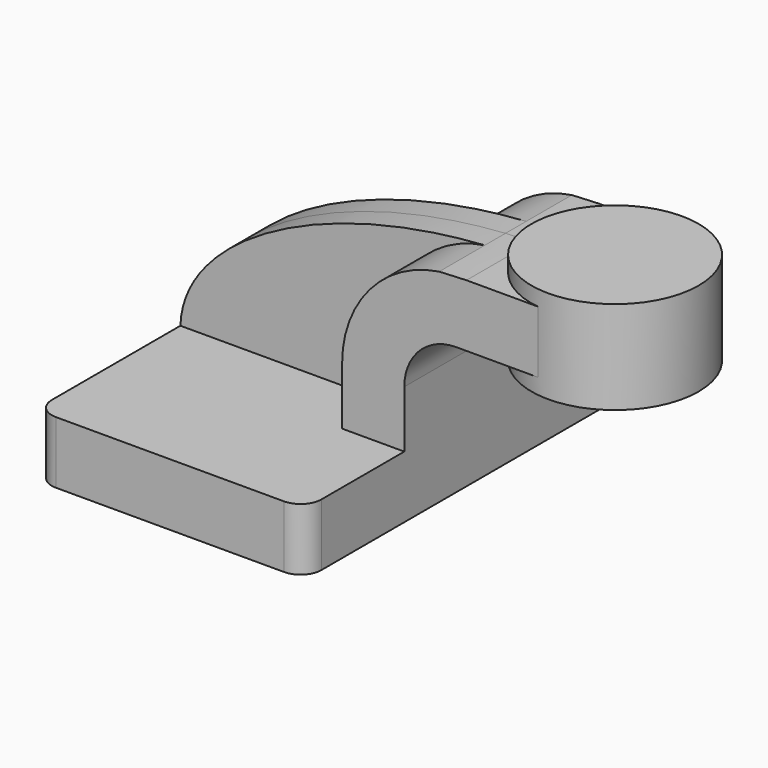
from build123d import *

# Parameters (mm, degrees)
F1_DEPTH = 63.5
F2_DEPTH = 7.9375
F3_R     = 6.35
F0_W     = 25.194674
F0_H     = 19.05
F4_DEPTH = 25.4


with BuildPart() as f1:
    # F0 (on Front) → F1 (new body, symmetric)
    with BuildSketch(Plane.XZ):
        Polygon((-41.275, -9.525), (41.275, -9.525), (41.275, 9.525), (22.225, 9.525), (-41.275, 9.525), align=None)
    extrude(amount=F1_DEPTH, both=True)

    # F0 (on Front) → F2 (join, symmetric)
    with BuildSketch(Plane.XZ):
        with BuildLine():
            add(Edge.make_bspline(
                [(-41.275, 9.525), (-40.449119, 34.956452), (0.491742, 58.062427), (51.965438, 61.538236)],
                knots=[0, 0, 0, 0, 108.503557, 108.503557, 108.503557, 108.503557], degree=3))
            Line((-41.275, 9.525), (22.225, 9.525))
            Line((22.225, 9.525), (22.225, 27.0002))
            ThreePointArc((22.225, 27.0002), (30.684679, 49.789285), (51.965438, 61.538236))
        make_face()
    extrude(amount=F2_DEPTH, both=True)

    # F3
    f3_edges = [f1.edges().sort_by_distance(p)[0] for p in [
        (41.275, -63.5, 0),
        (-41.275, -63.5, 0),
        (41.275, 63.5, 0),
        (-41.275, 63.5, 0),
    ]]
    fillet(f3_edges, radius=F3_R)

    # F0 (on Front) → F4 (join, symmetric)
    with BuildSketch(Plane.XZ):
        with BuildLine():
            Line((22.225, 9.525), (41.275, 9.525))
            Line((41.275, 9.525), (41.275, 27.0002))
            ThreePointArc((41.275, 27.0002), (45.92468, 38.22552), (57.15, 42.8752))
            Line((57.15, 42.8752), (60.325, 42.8752))
            Line((60.325, 42.8752), (60.325, 61.9252))
            add(Edge.make_bspline(
                [(51.965438, 61.538236), (54.723241, 61.724459), (57.511278, 61.854334), (60.325, 61.9252)],
                knots=[108.503557, 108.503557, 108.503557, 108.503557, 114.316845, 114.316845, 114.316845, 114.316845], degree=3))
            ThreePointArc((51.965438, 61.538236), (30.684679, 49.789285), (22.225, 27.0002))
            Line((22.225, 27.0002), (22.225, 9.525))
        make_face()
        with Locations((72.922337, 52.4002)):
            Rectangle(F0_W, F0_H)
    extrude(amount=F4_DEPTH, both=True)

    # F0 (on Front) → F5 (revolve)
    with BuildSketch(Plane.XZ):
        Polygon((85.519674, 66.675), (85.519674, 61.9252), (85.519674, 42.8752), (85.519674, 38.1), (111.125, 38.1), (111.125, 66.675), align=None)
    revolve(axis=Axis((85.519674, 0, 52.3875), (0, 0, 1)))


solid = f1.part
